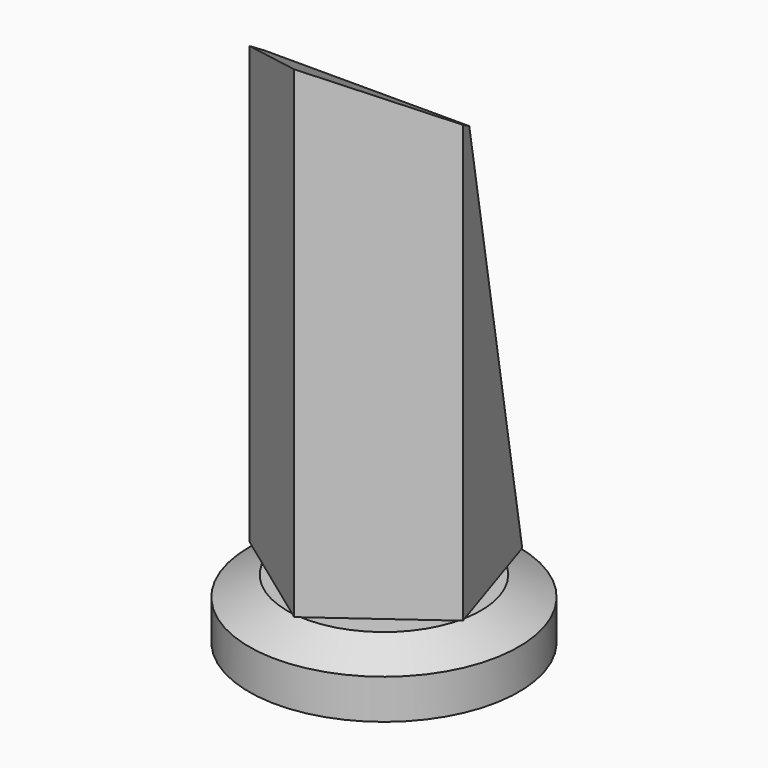
from build123d import *

# Parameters (mm, degrees)
F1_DEPTH      = 274.32
F3_DEPTH      = 76.2
F3_DEPTH_BACK = 76.2


with BuildPart() as f1:
    # F0 (on Top) → F1 (new body)
    with BuildSketch(Plane.XY):
        Polygon((36.714105892, 50.5326315761), (-36.714105892, 50.5326315761), (-59.4046711999, -19.3017477211), (0, -62.46176771), (59.4046711999, -19.3017477211), align=None)
    extrude(amount=F1_DEPTH)

    # F2 (on Right) → F3 (cut, two sides)
    with BuildSketch(Plane.YZ) as f3_sk:
        Polygon((53.4598119557, -12.6196304336), (110.7068517473, 303.1274229288), (-68.951100111, 303.1274229288), (-68.951100111, 272.3546624184), (-11.8364533409, 238.6562526226), align=None)
    extrude(amount=-F3_DEPTH, mode=Mode.SUBTRACT)
    extrude(f3_sk.sketch, amount=F3_DEPTH_BACK, mode=Mode.SUBTRACT)


with BuildPart() as f5:
    # F4 (on Front) → F5 (revolve)
    with BuildSketch(Plane.XZ):
        Polygon((0, -41.1962084472), (0, -4.6056029387), (-54.0578626096, -4.6056029387), (-75.0919803977, -15.5608747154), (-75.0919803977, -37.6905240119), (-52.0859137177, -47.5502684712), (-52.0859137177, -41.1962084472), align=None)
    revolve(axis=Axis((0, 0, -22.9009056929), (0, 0, 1)))


solid = Compound([f1.part, f5.part])
